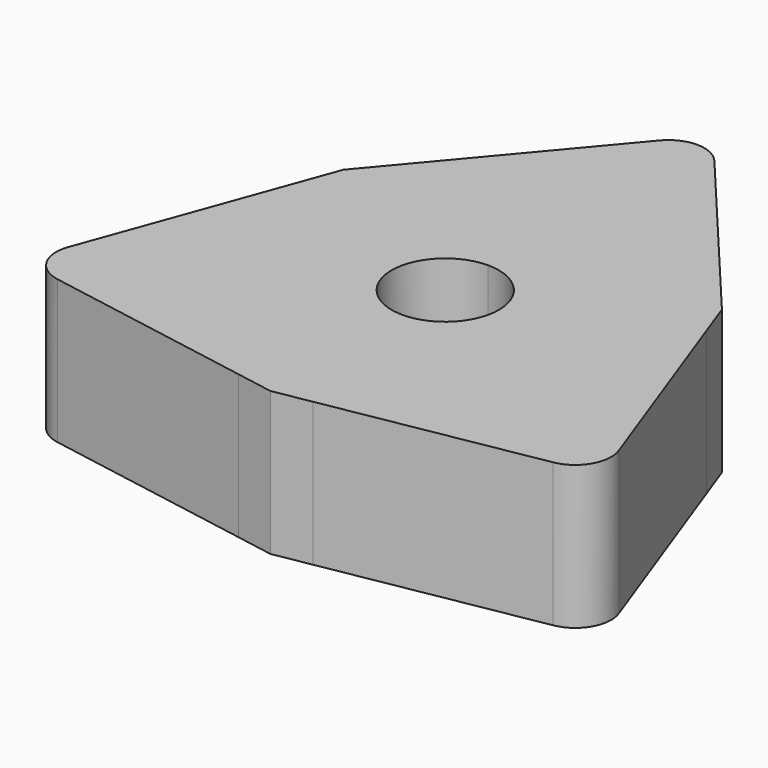
from build123d import *

# Parameters (mm, degrees)
F1_DEPTH = 3.175
F2_R     = 0.79375


with BuildPart() as f1:
    # F0 (on Top) → F1 (new body)
    with BuildSketch(Plane.XY):
        with BuildLine():
            ThreePointArc((0, 4.7625), (2.0127194988, 4.316290823), (3.648286699, 3.061275945))
            Line((3.648286699, 3.061275945), (0, 7.4091347254))
            Line((0, 7.4091347254), (0, 4.7625))
        make_face()
        with BuildLine():
            ThreePointArc((-3.6482866444, 3.0612760102), (-2.0127194603, 4.316290841), (0, 4.7625))
            Line((0, 4.7625), (0, 7.4091347254))
            Line((0, 7.4091347254), (-3.6482866444, 3.0612760102))
        make_face()
        with BuildLine():
            ThreePointArc((0.8269994491, -4.6901469232), (3.6482866613, -3.06127599), (4.7625, 0))
            ThreePointArc((4.7625, 0), (4.6901469251, 0.8269994386), (4.4752861117, 1.6288709182))
            ThreePointArc((4.4752861117, 1.6288709182), (4.1244460044, 2.3812499673), (3.648286699, 3.061275945))
            ThreePointArc((3.648286699, 3.061275945), (2.0127194988, 4.316290823), (0, 4.7625))
            ThreePointArc((0, 4.7625), (-2.0127194603, 4.316290841), (-3.6482866444, 3.0612760102))
            ThreePointArc((-3.6482866444, 3.0612760102), (-4.1244459867, 2.3812499979), (-4.4752861166, 1.6288709047))
            ThreePointArc((-4.4752861166, 1.6288709047), (-4.1244459762, -2.3812500162), (-0.8269994386, -4.6901469251))
            ThreePointArc((-0.8269994386, -4.6901469251), (5.3e-09, -4.7625), (0.8269994491, -4.6901469232))
        make_face()
        with BuildLine():
            ThreePointArc((1.18745, 0), (-0.8396539473, -0.8396539473), (0, 1.18745))
            ThreePointArc((0, 1.18745), (0.8396539473, 0.8396539473), (1.18745, 0))
        make_face(mode=Mode.SUBTRACT)
        with BuildLine():
            ThreePointArc((4.4752861117, 1.6288709182), (4.6901469251, 0.8269994386), (4.7625, 0))
            ThreePointArc((4.7625, 0), (3.6482866613, -3.06127599), (0.8269994491, -4.6901469232))
            Line((0.8269994491, -4.6901469232), (6.4164988923, -3.7045673627))
            Line((6.4164988923, -3.7045673627), (4.4752861117, 1.6288709182))
        make_face()
        with BuildLine():
            Line((-6.4164988923, -3.7045673627), (-0.8269994386, -4.6901469251))
            ThreePointArc((-0.8269994386, -4.6901469251), (-4.1244459762, -2.3812500162), (-4.4752861166, 1.6288709047))
            Line((-4.4752861166, 1.6288709047), (-6.4164988923, -3.7045673627))
        make_face()
        with BuildLine():
            ThreePointArc((3.648286699, 3.061275945), (4.1244460044, 2.3812499673), (4.4752861117, 1.6288709182))
            Line((4.4752861117, 1.6288709182), (4.188072213, 2.4179846196))
            Line((4.188072213, 2.4179846196), (3.648286699, 3.061275945))
        make_face()
        with BuildLine():
            Line((-4.188072213, 2.4179846196), (-4.4752861166, 1.6288709047))
            ThreePointArc((-4.4752861166, 1.6288709047), (-4.1244459867, 2.3812499979), (-3.6482866444, 3.0612760102))
            Line((-3.6482866444, 3.0612760102), (-4.188072213, 2.4179846196))
        make_face()
        with BuildLine():
            Line((0, -4.8359692391), (0.8269994491, -4.6901469232))
            ThreePointArc((0.8269994491, -4.6901469232), (5.3e-09, -4.7625), (-0.8269994386, -4.6901469251))
            Line((-0.8269994386, -4.6901469251), (0, -4.8359692391))
        make_face()
    extrude(amount=F1_DEPTH)

    # F2
    f2_edges = [f1.edges().sort_by_distance(p)[0] for p in [
        (0, 7.409135, 1.5875),
        (-6.416499, -3.704567, 1.5875),
        (6.416499, -3.704567, 1.5875),
    ]]
    fillet(f2_edges, radius=F2_R)


solid = f1.part
